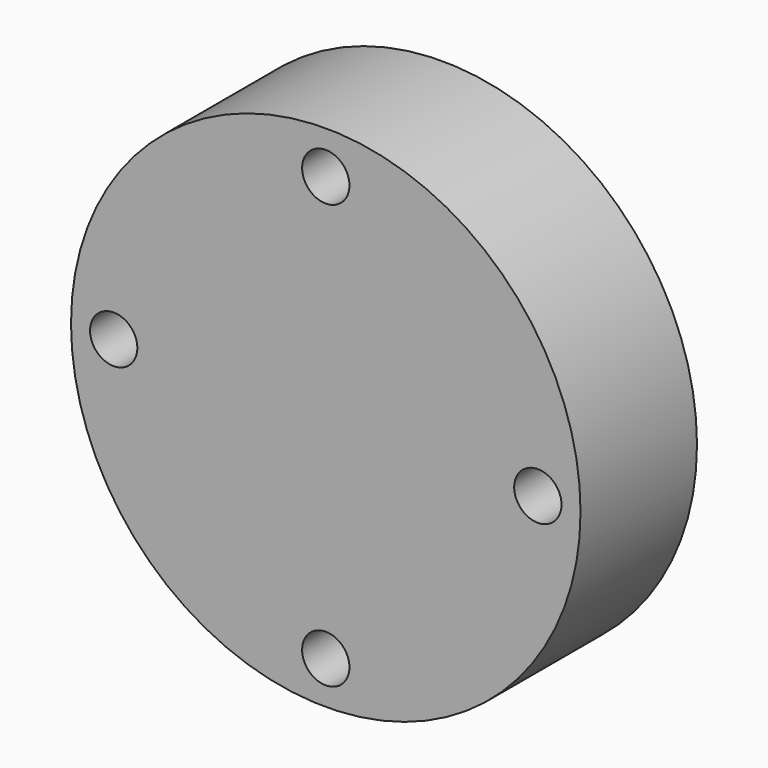
from build123d import *

# Parameters (mm, degrees)
F0_R     = 44.45
F0_R_2   = 4.1275
F1_DEPTH = 12.7


with BuildPart() as f1:
    # F0 (on Front) → F1 (new body, symmetric)
    with BuildSketch(Plane.XZ):
        Circle(F0_R)
        with Locations((-37.002046, 0)):
            Circle(F0_R_2, mode=Mode.SUBTRACT)
        with Locations((0, -37.002046)):
            Circle(F0_R_2, mode=Mode.SUBTRACT)
        with Locations((37.002046, 0)):
            Circle(F0_R_2, mode=Mode.SUBTRACT)
        with Locations((0, 37.002046)):
            Circle(F0_R_2, mode=Mode.SUBTRACT)
    extrude(amount=F1_DEPTH, both=True)


solid = f1.part
